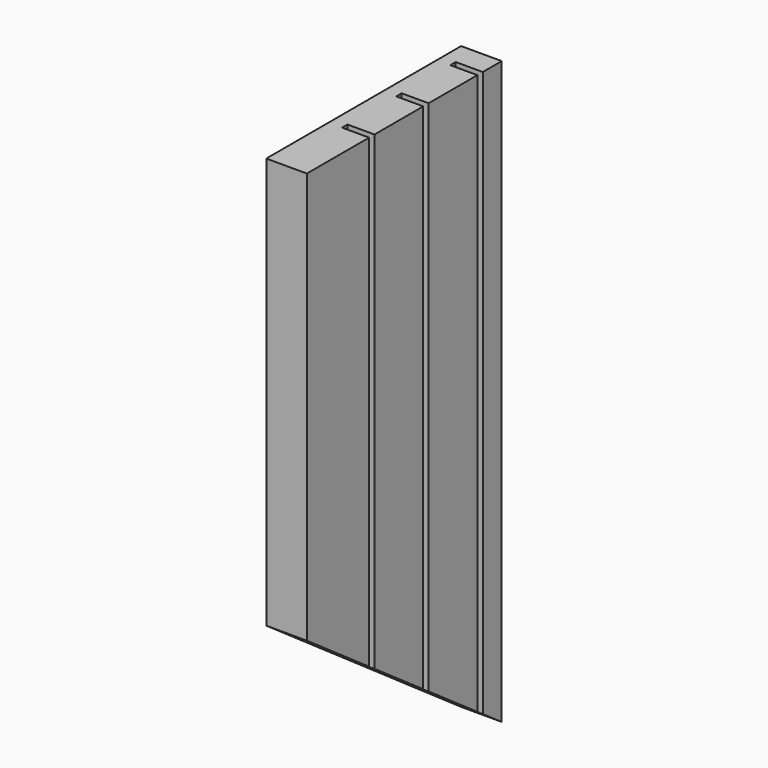
from build123d import *

# Parameters (mm, degrees)
F0_W     = 114.3
F0_H     = 273.05
F1_DEPTH = 19.05
F2_W     = 3.175
F2_H     = 273.05
F3_DEPTH = 12.7
F5_DEPTH = 19.051


with BuildPart() as f1:
    # F0 (on Right) → F1 (new body)
    with BuildSketch(Plane.YZ):
        with Locations((-57.15, -136.525)):
            Rectangle(F0_W, F0_H)
    extrude(amount=F1_DEPTH)

    # F2 (on face) → F3 (cut)
    with BuildSketch(Plane.YZ.offset(19.05)):
        with Locations((-12.7, -136.525)):
            Rectangle(F2_W, F2_H)
        with Locations((-44.45, -136.525)):
            Rectangle(F2_W, F2_H)
        with Locations((-76.2, -136.525)):
            Rectangle(F2_W, F2_H)
    extrude(amount=-F3_DEPTH, mode=Mode.SUBTRACT)

    # F4 (on Right) → F5 (cut, through all)
    with BuildSketch(Plane.YZ):
        Polygon((-114.3, -273.05), (0, -273.05), (-114.3, -193.016278), align=None)
    extrude(amount=F5_DEPTH, mode=Mode.SUBTRACT)


solid = f1.part
